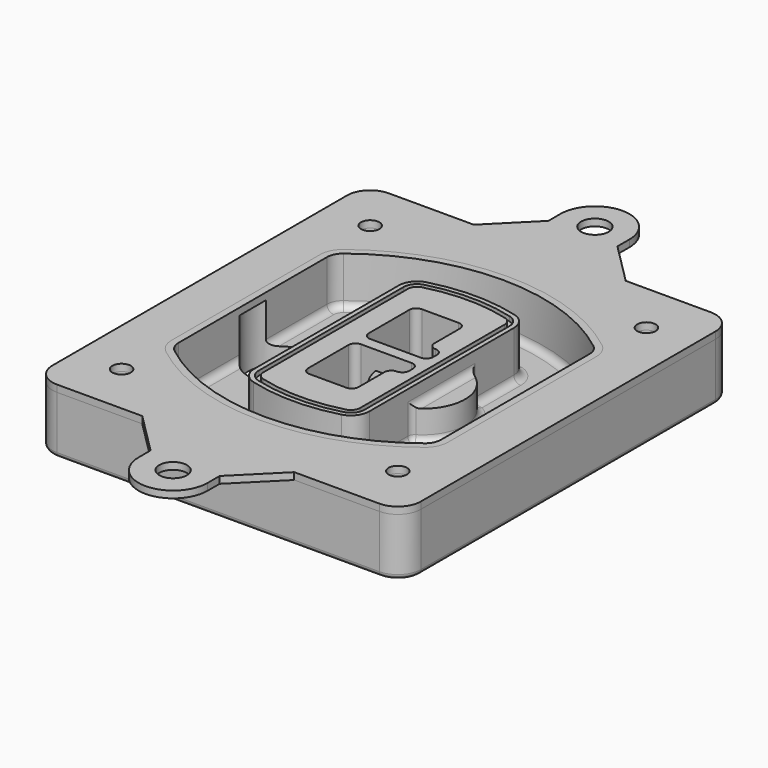
from build123d import *

# Parameters (mm, degrees)
F0_R      = 4
F1_DEPTH  = 25
F2_DEPTH  = 3
F3_DEPTH  = 18
F5_DEPTH  = 21
F6_DEPTH  = 2
F8_DEPTH  = 20
F9_DEPTH  = 16
F10_DEPTH = 25
F7_R      = 6
F7_R_2    = 4
F11_DEPTH = 6
F13_DEPTH = 9
F14_R     = 3
F15_R     = 2
F16_R     = 6
F16_R_2   = 4
F17_DEPTH = 3


with BuildPart() as f1:
    # F0 (on Top) → F1 (new body)
    with BuildSketch(Plane.XY):
        with BuildLine():
            ThreePointArc((-80, -80), (-77.0710678119, -87.0710678119), (-70, -90))
            Line((-70, -90), (70, -90))
            ThreePointArc((70, -90), (77.0710678119, -87.0710678119), (80, -80))
            Line((80, -80), (80, 80))
            ThreePointArc((80, 80), (77.0710678119, 87.0710678119), (70, 90))
            Line((70, 90), (-70, 90))
            ThreePointArc((-70, 90), (-77.0710678119, 87.0710678119), (-80, 80))
            Line((-80, 80), (-80, -80))
        make_face()
        with Locations((-60, -67.5)):
            Circle(F0_R, mode=Mode.SUBTRACT)
        with Locations((60, -67.5)):
            Circle(F0_R, mode=Mode.SUBTRACT)
        with Locations((-60, 67.5)):
            Circle(F0_R, mode=Mode.SUBTRACT)
        with BuildLine():
            ThreePointArc((-64, 40.2934422872), (-62.5820384798, 46.4328484224), (-58.6153846154, 51.3286200352))
            ThreePointArc((-58.6153846154, 51.3286200352), (0, 71.5), (58.6153846154, 51.3286200352))
            ThreePointArc((58.6153846154, 51.3286200352), (62.5820384798, 46.4328484224), (64, 40.2934422872))
            Line((64, 40.2934422872), (64, -40.2934422872))
            ThreePointArc((64, -40.2934422872), (62.5820384798, -46.4328484224), (58.6153846154, -51.3286200352))
            ThreePointArc((58.6153846154, -51.3286200352), (0, -71.5), (-58.6153846154, -51.3286200352))
            ThreePointArc((-58.6153846154, -51.3286200352), (-62.5820384798, -46.4328484224), (-64, -40.2934422872))
            Line((-64, -40.2934422872), (-64, 40.2934422872))
        make_face(mode=Mode.SUBTRACT)
        with Locations((60, 67.5)):
            Circle(F0_R, mode=Mode.SUBTRACT)
        with BuildLine():
            ThreePointArc((58.6153846154, 51.3286200352), (0, 71.5), (-58.6153846154, 51.3286200352))
            ThreePointArc((-58.6153846154, 51.3286200352), (-62.5820384798, 46.4328484224), (-64, 40.2934422872))
            Line((-64, 40.2934422872), (-64, -40.2934422872))
            ThreePointArc((-64, -40.2934422872), (-62.5820384798, -46.4328484224), (-58.6153846154, -51.3286200352))
            ThreePointArc((-58.6153846154, -51.3286200352), (0, -71.5), (58.6153846154, -51.3286200352))
            ThreePointArc((58.6153846154, -51.3286200352), (62.5820384798, -46.4328484224), (64, -40.2934422872))
            Line((64, -40.2934422872), (64, 40.2934422872))
            ThreePointArc((64, 40.2934422872), (62.5820384798, 46.4328484224), (58.6153846154, 51.3286200352))
        make_face()
        with BuildLine():
            Line((-60, -40.2934422872), (-60, 40.2934422872))
            ThreePointArc((-60, 40.2934422872), (-58.9871703427, 44.6787323838), (-56.1538461538, 48.1757121072))
            ThreePointArc((-56.1538461538, 48.1757121072), (0, 67.5), (56.1538461538, 48.1757121072))
            ThreePointArc((56.1538461538, 48.1757121072), (58.9871703427, 44.6787323838), (60, 40.2934422872))
            Line((60, 40.2934422872), (60, -40.2934422872))
            ThreePointArc((60, -40.2934422872), (58.9871703427, -44.6787323838), (56.1538461538, -48.1757121072))
            ThreePointArc((56.1538461538, -48.1757121072), (0, -67.5), (-56.1538461538, -48.1757121072))
            ThreePointArc((-56.1538461538, -48.1757121072), (-58.9871703427, -44.6787323838), (-60, -40.2934422872))
        make_face(mode=Mode.SUBTRACT)
        with BuildLine():
            ThreePointArc((-56.1538461538, 48.1757121072), (-58.9871703427, 44.6787323838), (-60, 40.2934422872))
            Line((-60, 40.2934422872), (-60, -40.2934422872))
            ThreePointArc((-60, -40.2934422872), (-58.9871703427, -44.6787323838), (-56.1538461538, -48.1757121072))
            ThreePointArc((-56.1538461538, -48.1757121072), (0, -67.5), (56.1538461538, -48.1757121072))
            ThreePointArc((56.1538461538, -48.1757121072), (58.9871703427, -44.6787323838), (60, -40.2934422872))
            Line((60, -40.2934422872), (60, 40.2934422872))
            ThreePointArc((60, 40.2934422872), (58.9871703427, 44.6787323838), (56.1538461538, 48.1757121072))
            ThreePointArc((56.1538461538, 48.1757121072), (0, 67.5), (-56.1538461538, 48.1757121072))
        make_face()
        with BuildLine():
            ThreePointArc((54.3076923077, 45.8110311612), (56.2910192399, 43.3631453548), (57, 40.2934422872))
            Line((57, 40.2934422872), (57, -40.2934422872))
            ThreePointArc((57, -40.2934422872), (56.2910192399, -43.3631453548), (54.3076923077, -45.8110311612))
            ThreePointArc((54.3076923077, -45.8110311612), (0, -64.5), (-54.3076923077, -45.8110311612))
            ThreePointArc((-54.3076923077, -45.8110311612), (-56.2910192399, -43.3631453548), (-57, -40.2934422872))
            Line((-57, -40.2934422872), (-57, 40.2934422872))
            ThreePointArc((-57, 40.2934422872), (-56.2910192399, 43.3631453548), (-54.3076923077, 45.8110311612))
            ThreePointArc((-54.3076923077, 45.8110311612), (0, 64.5), (54.3076923077, 45.8110311612))
        make_face(mode=Mode.SUBTRACT)
        with BuildLine():
            Line((57, -40.2934422872), (57, 40.2934422872))
            ThreePointArc((57, 40.2934422872), (56.2910192399, 43.3631453548), (54.3076923077, 45.8110311612))
            ThreePointArc((54.3076923077, 45.8110311612), (0, 64.5), (-54.3076923077, 45.8110311612))
            ThreePointArc((-54.3076923077, 45.8110311612), (-56.2910192399, 43.3631453548), (-57, 40.2934422872))
            Line((-57, 40.2934422872), (-57, -40.2934422872))
            ThreePointArc((-57, -40.2934422872), (-56.2910192399, -43.3631453548), (-54.3076923077, -45.8110311612))
            ThreePointArc((-54.3076923077, -45.8110311612), (0, -64.5), (54.3076923077, -45.8110311612))
            ThreePointArc((54.3076923077, -45.8110311612), (56.2910192399, -43.3631453548), (57, -40.2934422872))
        make_face()
    extrude(amount=-F1_DEPTH)

    # F0 (on Top) → F2 (join)
    with BuildSketch(Plane.XY):
        with BuildLine():
            ThreePointArc((-56.1538461538, 48.1757121072), (-58.9871703427, 44.6787323838), (-60, 40.2934422872))
            Line((-60, 40.2934422872), (-60, -40.2934422872))
            ThreePointArc((-60, -40.2934422872), (-58.9871703427, -44.6787323838), (-56.1538461538, -48.1757121072))
            ThreePointArc((-56.1538461538, -48.1757121072), (0, -67.5), (56.1538461538, -48.1757121072))
            ThreePointArc((56.1538461538, -48.1757121072), (58.9871703427, -44.6787323838), (60, -40.2934422872))
            Line((60, -40.2934422872), (60, 40.2934422872))
            ThreePointArc((60, 40.2934422872), (58.9871703427, 44.6787323838), (56.1538461538, 48.1757121072))
            ThreePointArc((56.1538461538, 48.1757121072), (0, 67.5), (-56.1538461538, 48.1757121072))
        make_face()
        with BuildLine():
            ThreePointArc((54.3076923077, 45.8110311612), (56.2910192399, 43.3631453548), (57, 40.2934422872))
            Line((57, 40.2934422872), (57, -40.2934422872))
            ThreePointArc((57, -40.2934422872), (56.2910192399, -43.3631453548), (54.3076923077, -45.8110311612))
            ThreePointArc((54.3076923077, -45.8110311612), (0, -64.5), (-54.3076923077, -45.8110311612))
            ThreePointArc((-54.3076923077, -45.8110311612), (-56.2910192399, -43.3631453548), (-57, -40.2934422872))
            Line((-57, -40.2934422872), (-57, 40.2934422872))
            ThreePointArc((-57, 40.2934422872), (-56.2910192399, 43.3631453548), (-54.3076923077, 45.8110311612))
            ThreePointArc((-54.3076923077, 45.8110311612), (0, 64.5), (54.3076923077, 45.8110311612))
        make_face(mode=Mode.SUBTRACT)
    extrude(amount=F2_DEPTH)

    # F0 (on Top) → F3 (cut)
    with BuildSketch(Plane.XY):
        with BuildLine():
            Line((57, -40.2934422872), (57, 40.2934422872))
            ThreePointArc((57, 40.2934422872), (56.2910192399, 43.3631453548), (54.3076923077, 45.8110311612))
            ThreePointArc((54.3076923077, 45.8110311612), (0, 64.5), (-54.3076923077, 45.8110311612))
            ThreePointArc((-54.3076923077, 45.8110311612), (-56.2910192399, 43.3631453548), (-57, 40.2934422872))
            Line((-57, 40.2934422872), (-57, -40.2934422872))
            ThreePointArc((-57, -40.2934422872), (-56.2910192399, -43.3631453548), (-54.3076923077, -45.8110311612))
            ThreePointArc((-54.3076923077, -45.8110311612), (0, -64.5), (54.3076923077, -45.8110311612))
            ThreePointArc((54.3076923077, -45.8110311612), (56.2910192399, -43.3631453548), (57, -40.2934422872))
        make_face()
    extrude(amount=-F3_DEPTH, mode=Mode.SUBTRACT)

    # F4 (on face) → F5 (join, through all)
    with BuildSketch(Plane.XY.offset(3)):
        with BuildLine():
            ThreePointArc((-25, -39.2465276821), (-23.3511545998, -44.1109737193), (-19.0842911877, -46.9702398883))
            ThreePointArc((-19.0842911877, -46.9702398883), (0, -49.5), (19.0842911877, -46.9702398883))
            ThreePointArc((19.0842911877, -46.9702398883), (23.3511545998, -44.1109737193), (25, -39.2465276821))
            Line((25, -39.2465276821), (25, 39.2465276821))
            ThreePointArc((25, 39.2465276821), (23.3511545998, 44.1109737193), (19.0842911877, 46.9702398883))
            ThreePointArc((19.0842911877, 46.9702398883), (0, 49.5), (-19.0842911877, 46.9702398883))
            ThreePointArc((-19.0842911877, 46.9702398883), (-23.3511545998, 44.1109737193), (-25, 39.2465276821))
            Line((-25, 39.2465276821), (-25, -39.2465276821))
        make_face()
        with BuildLine():
            ThreePointArc((18.5632183908, 45.0393118368), (21.7633659499, 42.89486221), (23, 39.2465276821))
            Line((23, 39.2465276821), (23, -39.2465276821))
            ThreePointArc((23, -39.2465276821), (21.7633659499, -42.89486221), (18.5632183908, -45.0393118368))
            ThreePointArc((18.5632183908, -45.0393118368), (0, -47.5), (-18.5632183908, -45.0393118368))
            ThreePointArc((-18.5632183908, -45.0393118368), (-21.7633659499, -42.89486221), (-23, -39.2465276821))
            Line((-23, -39.2465276821), (-23, 39.2465276821))
            ThreePointArc((-23, 39.2465276821), (-21.7633659499, 42.89486221), (-18.5632183908, 45.0393118368))
            ThreePointArc((-18.5632183908, 45.0393118368), (0, 47.5), (18.5632183908, 45.0393118368))
        make_face(mode=Mode.SUBTRACT)
        with BuildLine():
            Line((23, -39.2465276821), (23, 39.2465276821))
            ThreePointArc((23, 39.2465276821), (21.7633659499, 42.89486221), (18.5632183908, 45.0393118368))
            ThreePointArc((18.5632183908, 45.0393118368), (0, 47.5), (-18.5632183908, 45.0393118368))
            ThreePointArc((-18.5632183908, 45.0393118368), (-21.7633659499, 42.89486221), (-23, 39.2465276821))
            Line((-23, 39.2465276821), (-23, -39.2465276821))
            ThreePointArc((-23, -39.2465276821), (-21.7633659499, -42.89486221), (-18.5632183908, -45.0393118368))
            ThreePointArc((-18.5632183908, -45.0393118368), (0, -47.5), (18.5632183908, -45.0393118368))
            ThreePointArc((18.5632183908, -45.0393118368), (21.7633659499, -42.89486221), (23, -39.2465276821))
        make_face()
        with BuildLine():
            ThreePointArc((18.0421455939, 43.1083837852), (20.1755772999, 41.6787507007), (21, 39.2465276821))
            Line((21, 39.2465276821), (21, -39.2465276821))
            ThreePointArc((21, -39.2465276821), (20.1755772999, -41.6787507007), (18.0421455939, -43.1083837852))
            ThreePointArc((18.0421455939, -43.1083837852), (0, -45.5), (-18.0421455939, -43.1083837852))
            ThreePointArc((-18.0421455939, -43.1083837852), (-20.1755772999, -41.6787507007), (-21, -39.2465276821))
            Line((-21, -39.2465276821), (-21, 39.2465276821))
            ThreePointArc((-21, 39.2465276821), (-20.1755772999, 41.6787507007), (-18.0421455939, 43.1083837852))
            ThreePointArc((-18.0421455939, 43.1083837852), (0, 45.5), (18.0421455939, 43.1083837852))
        make_face(mode=Mode.SUBTRACT)
        with BuildLine():
            Line((21, -39.2465276821), (21, 39.2465276821))
            ThreePointArc((21, 39.2465276821), (20.1755772999, 41.6787507007), (18.0421455939, 43.1083837852))
            ThreePointArc((18.0421455939, 43.1083837852), (0, 45.5), (-18.0421455939, 43.1083837852))
            ThreePointArc((-18.0421455939, 43.1083837852), (-20.1755772999, 41.6787507007), (-21, 39.2465276821))
            Line((-21, 39.2465276821), (-21, -39.2465276821))
            ThreePointArc((-21, -39.2465276821), (-20.1755772999, -41.6787507007), (-18.0421455939, -43.1083837852))
            ThreePointArc((-18.0421455939, -43.1083837852), (0, -45.5), (18.0421455939, -43.1083837852))
            ThreePointArc((18.0421455939, -43.1083837852), (20.1755772999, -41.6787507007), (21, -39.2465276821))
        make_face()
        with BuildLine():
            Line((-8, -2.5), (14, -2.5))
            ThreePointArc((14, -2.5), (16.1213203436, -3.3786796564), (17, -5.5))
            Line((17, -5.5), (17, -7.5))
            ThreePointArc((17, -7.5), (16.1213203436, -9.6213203436), (14, -10.5))
            ThreePointArc((14, -10.5), (11.8786796564, -11.3786796564), (11, -13.5))
            Line((11, -13.5), (11, -27.5))
            ThreePointArc((11, -27.5), (10.1213203436, -29.6213203436), (8, -30.5))
            Line((8, -30.5), (-8, -30.5))
            ThreePointArc((-8, -30.5), (-10.1213203436, -29.6213203436), (-11, -27.5))
            Line((-11, -27.5), (-11, -5.5))
            ThreePointArc((-11, -5.5), (-10.1213203436, -3.3786796564), (-8, -2.5))
        make_face(mode=Mode.SUBTRACT)
        with BuildLine():
            ThreePointArc((-8, 2.5), (-10.1213203436, 3.3786796564), (-11, 5.5))
            Line((-11, 5.5), (-11, 27.5))
            ThreePointArc((-11, 27.5), (-10.1213203436, 29.6213203436), (-8, 30.5))
            Line((-8, 30.5), (8, 30.5))
            ThreePointArc((8, 30.5), (10.1213203436, 29.6213203436), (11, 27.5))
            Line((11, 27.5), (11, 13.5))
            ThreePointArc((11, 13.5), (11.8786796564, 11.3786796564), (14, 10.5))
            ThreePointArc((14, 10.5), (16.1213203436, 9.6213203436), (17, 7.5))
            Line((17, 7.5), (17, 5.5))
            ThreePointArc((17, 5.5), (16.1213203436, 3.3786796564), (14, 2.5))
            Line((14, 2.5), (-8, 2.5))
        make_face(mode=Mode.SUBTRACT)
    extrude(amount=-F5_DEPTH)

    # F4 (on face) → F6 (cut)
    with BuildSketch(Plane.XY.offset(3)):
        with BuildLine():
            Line((23, -39.2465276821), (23, 39.2465276821))
            ThreePointArc((23, 39.2465276821), (21.7633659499, 42.89486221), (18.5632183908, 45.0393118368))
            ThreePointArc((18.5632183908, 45.0393118368), (0, 47.5), (-18.5632183908, 45.0393118368))
            ThreePointArc((-18.5632183908, 45.0393118368), (-21.7633659499, 42.89486221), (-23, 39.2465276821))
            Line((-23, 39.2465276821), (-23, -39.2465276821))
            ThreePointArc((-23, -39.2465276821), (-21.7633659499, -42.89486221), (-18.5632183908, -45.0393118368))
            ThreePointArc((-18.5632183908, -45.0393118368), (0, -47.5), (18.5632183908, -45.0393118368))
            ThreePointArc((18.5632183908, -45.0393118368), (21.7633659499, -42.89486221), (23, -39.2465276821))
        make_face()
        with BuildLine():
            ThreePointArc((18.0421455939, 43.1083837852), (20.1755772999, 41.6787507007), (21, 39.2465276821))
            Line((21, 39.2465276821), (21, -39.2465276821))
            ThreePointArc((21, -39.2465276821), (20.1755772999, -41.6787507007), (18.0421455939, -43.1083837852))
            ThreePointArc((18.0421455939, -43.1083837852), (0, -45.5), (-18.0421455939, -43.1083837852))
            ThreePointArc((-18.0421455939, -43.1083837852), (-20.1755772999, -41.6787507007), (-21, -39.2465276821))
            Line((-21, -39.2465276821), (-21, 39.2465276821))
            ThreePointArc((-21, 39.2465276821), (-20.1755772999, 41.6787507007), (-18.0421455939, 43.1083837852))
            ThreePointArc((-18.0421455939, 43.1083837852), (0, 45.5), (18.0421455939, 43.1083837852))
        make_face(mode=Mode.SUBTRACT)
    extrude(amount=-F6_DEPTH, mode=Mode.SUBTRACT)

    # F7 (on face) → F8 (join)
    with BuildSketch(Plane(origin=(0, 0, -25), x_dir=(1, 0, 0), z_dir=(0, 0, -1))):
        with BuildLine():
            ThreePointArc((3.28842436, 0), (16.7567035675, 13.4682792075), (30.224982775, 0))
            Line((30.224982775, 0), (35.224982775, 0))
            ThreePointArc((35.224982775, 0), (16.7567035675, 18.4682792075), (-1.71157564, 0))
            Line((-1.71157564, 0), (3.28842436, 0))
        make_face()
        with BuildLine():
            Line((3.28842436, 0), (30.224982775, 0))
            ThreePointArc((30.224982775, 0), (16.7567035675, 13.4682792075), (3.28842436, 0))
        make_face()
        with BuildLine():
            ThreePointArc((3.28842436, 0), (16.7567035675, -13.4682792075), (30.224982775, 0))
            Line((30.224982775, 0), (3.28842436, 0))
        make_face()
        with BuildLine():
            Line((35.224982775, 0), (30.224982775, 0))
            ThreePointArc((30.224982775, 0), (16.7567035675, -13.4682792075), (3.28842436, 0))
            Line((3.28842436, 0), (-1.71157564, 0))
            ThreePointArc((-1.71157564, 0), (16.7567035675, -18.4682792075), (35.224982775, 0))
        make_face()
    extrude(amount=-F8_DEPTH)

    # F7 (on face) → F9 (cut)
    with BuildSketch(Plane(origin=(0, 0, -25), x_dir=(1, 0, 0), z_dir=(0, 0, -1))):
        with BuildLine():
            Line((3.28842436, 0), (30.224982775, 0))
            ThreePointArc((30.224982775, 0), (16.7567035675, 13.4682792075), (3.28842436, 0))
        make_face()
        with BuildLine():
            ThreePointArc((3.28842436, 0), (16.7567035675, -13.4682792075), (30.224982775, 0))
            Line((30.224982775, 0), (3.28842436, 0))
        make_face()
    extrude(amount=-F9_DEPTH, mode=Mode.SUBTRACT)

    # F7 (on face) → F10 (cut)
    with BuildSketch(Plane(origin=(0, 0, -25), x_dir=(1, 0, 0), z_dir=(0, 0, -1))):
        with BuildLine():
            Line((-59.0318229325, 0), (-32.0952645175, 0))
            ThreePointArc((-32.0952645175, 0), (-45.563543725, 13.4682792075), (-59.0318229325, 0))
        make_face()
        with BuildLine():
            ThreePointArc((-59.0318229325, 0), (-45.563543725, -13.4682792075), (-32.0952645175, 0))
            Line((-32.0952645175, 0), (-59.0318229325, 0))
        make_face()
    extrude(amount=-F10_DEPTH, mode=Mode.SUBTRACT)

    # F7 (on face) → F11 (cut)
    with BuildSketch(Plane(origin=(0, 0, -25), x_dir=(1, 0, 0), z_dir=(0, 0, -1))):
        with Locations((60, -67.5)):
            Circle(F7_R)
        with Locations((60, -67.5)):
            Circle(F7_R_2, mode=Mode.SUBTRACT)
        with Locations((60, -67.5)):
            Circle(F7_R)
        with Locations((60, -67.5)):
            Circle(F7_R_2, mode=Mode.SUBTRACT)
        with Locations((-60, -67.5)):
            Circle(F7_R)
        with Locations((-60, -67.5)):
            Circle(F7_R_2, mode=Mode.SUBTRACT)
        with Locations((-60, -67.5)):
            Circle(F7_R)
        with Locations((-60, -67.5)):
            Circle(F7_R_2, mode=Mode.SUBTRACT)
        with Locations((-60, 67.5)):
            Circle(F7_R)
        with Locations((-60, 67.5)):
            Circle(F7_R_2, mode=Mode.SUBTRACT)
        with Locations((-60, 67.5)):
            Circle(F7_R)
        with Locations((-60, 67.5)):
            Circle(F7_R_2, mode=Mode.SUBTRACT)
        with Locations((60, 67.5)):
            Circle(F7_R)
        with Locations((60, 67.5)):
            Circle(F7_R_2, mode=Mode.SUBTRACT)
        with Locations((60, 67.5)):
            Circle(F7_R)
        with Locations((60, 67.5)):
            Circle(F7_R_2, mode=Mode.SUBTRACT)
    extrude(amount=-F11_DEPTH, mode=Mode.SUBTRACT)

    # F12 (on face) → F13 (cut, through all)
    with BuildSketch(Plane(origin=(0, 0, -9), x_dir=(1, 0, 0), z_dir=(0, 0, -1))):
        with BuildLine():
            Line((11, 13.5), (11, 17.5481537753))
            ThreePointArc((11, 17.5481537753), (2.5696536419, 11.8239143813), (-1.5415842455, 2.5))
            Line((-1.5415842455, 2.5), (3.5224848595, 2.5))
            ThreePointArc((3.5224848595, 2.5), (6.1857188154, 8.3455872281), (11.2536447004, 12.2927168648))
            ThreePointArc((11.2536447004, 12.2927168648), (11.0640958889, 12.8831798879), (11, 13.5))
        make_face()
        with BuildLine():
            ThreePointArc((11.2536447004, -12.2927168648), (6.1857188154, -8.3455872281), (3.5224848595, -2.5))
            Line((3.5224848595, -2.5), (-1.5415842455, -2.5))
            ThreePointArc((-1.5415842455, -2.5), (2.5696536419, -11.8239143813), (11, -17.5481537753))
            Line((11, -17.5481537753), (11, -13.5))
            ThreePointArc((11, -13.5), (11.0640958889, -12.8831798879), (11.2536447004, -12.2927168648))
        make_face()
        with BuildLine():
            ThreePointArc((11.2536447004, 12.2927168648), (6.1857188154, 8.3455872281), (3.5224848595, 2.5))
            Line((3.5224848595, 2.5), (14, 2.5))
            ThreePointArc((14, 2.5), (16.1213203436, 3.3786796564), (17, 5.5))
            Line((17, 5.5), (17, 7.5))
            ThreePointArc((17, 7.5), (16.1213203436, 9.6213203436), (14, 10.5))
            ThreePointArc((14, 10.5), (12.3601599782, 10.9878446101), (11.2536447004, 12.2927168648))
        make_face()
        with BuildLine():
            Line((14, -2.5), (3.5224848595, -2.5))
            ThreePointArc((3.5224848595, -2.5), (6.1857188154, -8.3455872281), (11.2536447004, -12.2927168648))
            ThreePointArc((11.2536447004, -12.2927168648), (12.3601599782, -10.9878446101), (14, -10.5))
            ThreePointArc((14, -10.5), (16.1213203436, -9.6213203436), (17, -7.5))
            Line((17, -7.5), (17, -5.5))
            ThreePointArc((17, -5.5), (16.1213203436, -3.3786796564), (14, -2.5))
        make_face()
    extrude(amount=F13_DEPTH, mode=Mode.SUBTRACT)

    # F14
    f14_edges = [f1.edges().sort_by_distance(p)[0] for p in [
        (-57, -23.703476, -18),
        (-57, 23.703476, -18),
        (25, 0, -5),
        (25, 16.526506, -11.5),
        (25, -16.526506, -11.5),
        (25, -27.886517, -18),
        (35.224983, 0, -18),
    ]]
    fillet(f14_edges, radius=F14_R)

    # F15
    f15_edges = [f1.edges().sort_by_distance(p)[0] for p in [
        (0, -90, -25),
    ]]
    fillet(f15_edges, radius=F15_R)


with BuildPart() as f17:
    # F16 (on face) → F17 (new body, through all)
    with BuildSketch(Plane.XY):
        with BuildLine():
            Line((-15, 108), (-33, 90))
            Line((-33, 90), (33, 90))
            Line((33, 90), (15, 108))
            Line((15, 108), (15, 114.5147186258))
            ThreePointArc((15, 114.5147186258), (0, 129.5147186258), (-15, 114.5147186258))
            Line((-15, 114.5147186258), (-15, 108))
        make_face()
        with Locations((0, 114.5147186258)):
            Circle(F16_R, mode=Mode.SUBTRACT)
        with BuildLine():
            Line((-33, 90), (-70, 90))
            ThreePointArc((-70, 90), (-77.0710678119, 87.0710678119), (-80, 80))
            Line((-80, 80), (-80, -80))
            ThreePointArc((-80, -80), (-77.0710678119, -87.0710678119), (-70, -90))
            Line((-70, -90), (-33, -90))
            Line((-33, -90), (33, -90))
            Line((33, -90), (70, -90))
            ThreePointArc((70, -90), (77.0710678119, -87.0710678119), (80, -80))
            Line((80, -80), (80, 80))
            ThreePointArc((80, 80), (77.0710678119, 87.0710678119), (70, 90))
            Line((70, 90), (33, 90))
            Line((33, 90), (-33, 90))
        make_face()
        with Locations((-60, -67.5)):
            Circle(F16_R_2, mode=Mode.SUBTRACT)
        with Locations((60, -67.5)):
            Circle(F16_R_2, mode=Mode.SUBTRACT)
        with Locations((-60, 67.5)):
            Circle(F16_R_2, mode=Mode.SUBTRACT)
        with BuildLine():
            ThreePointArc((-56.1538461538, -48.1757121072), (-58.9871703427, -44.6787323838), (-60, -40.2934422872))
            Line((-60, -40.2934422872), (-60, 40.2934422872))
            ThreePointArc((-60, 40.2934422872), (-58.9871703427, 44.6787323838), (-56.1538461538, 48.1757121072))
            ThreePointArc((-56.1538461538, 48.1757121072), (0, 67.5), (56.1538461538, 48.1757121072))
            ThreePointArc((56.1538461538, 48.1757121072), (58.9871703427, 44.6787323838), (60, 40.2934422872))
            Line((60, 40.2934422872), (60, -40.2934422872))
            ThreePointArc((60, -40.2934422872), (58.9871703427, -44.6787323838), (56.1538461538, -48.1757121072))
            ThreePointArc((56.1538461538, -48.1757121072), (0, -67.5), (-56.1538461538, -48.1757121072))
        make_face(mode=Mode.SUBTRACT)
        with Locations((60, 67.5)):
            Circle(F16_R_2, mode=Mode.SUBTRACT)
        with BuildLine():
            Line((33, -90), (-33, -90))
            Line((-33, -90), (-15, -108))
            Line((-15, -108), (-15, -114.5147186258))
            ThreePointArc((-15, -114.5147186258), (0, -129.5147186258), (15, -114.5147186258))
            Line((15, -114.5147186258), (15, -108))
            Line((15, -108), (33, -90))
        make_face()
        with Locations((0, -114.5147186258)):
            Circle(F16_R, mode=Mode.SUBTRACT)
    extrude(amount=F17_DEPTH)


solid = Compound([f1.part, f17.part])
